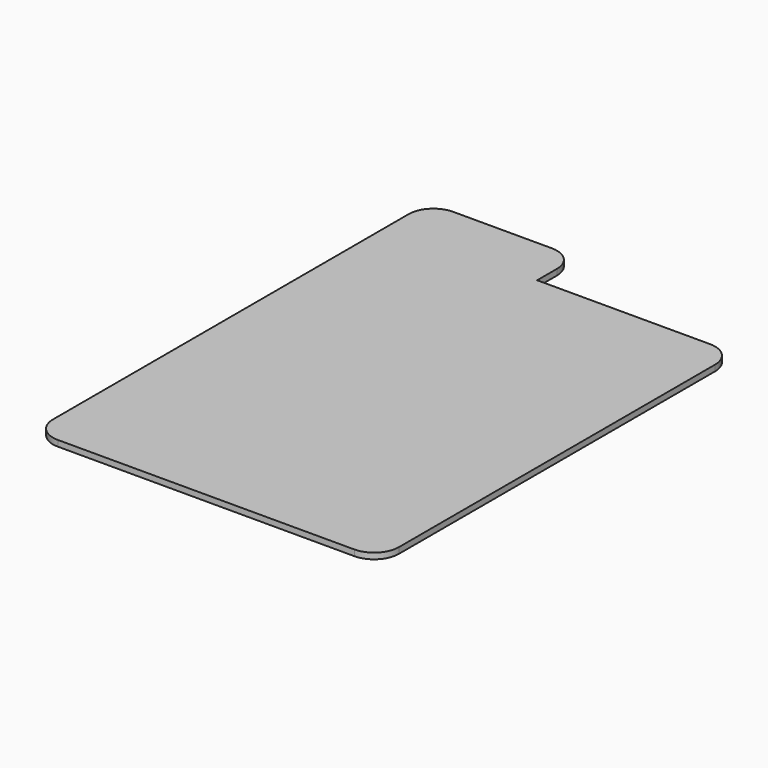
from build123d import *

# Parameters (mm, degrees)
F1_DEPTH = 1.2


with BuildPart() as f1:
    # F0 (on Top) → F1 (new body)
    with BuildSketch(Plane.XY):
        with BuildLine():
            Line((-30, -50), (30, -50))
            ThreePointArc((30, -50), (33.535534, -48.535534), (35, -45))
            Line((35, -45), (35, 35))
            ThreePointArc((35, 35), (33.535534, 38.535534), (30, 40))
            Line((30, 40), (-5, 40))
            Line((-5, 40), (-5, 45))
            ThreePointArc((-5, 45), (-6.464466, 48.535534), (-10, 50))
            Line((-10, 50), (-30, 50))
            ThreePointArc((-30, 50), (-33.535534, 48.535534), (-35, 45))
            Line((-35, 45), (-35, -45))
            ThreePointArc((-35, -45), (-33.535534, -48.535534), (-30, -50))
        make_face()
    extrude(amount=F1_DEPTH)


solid = f1.part
